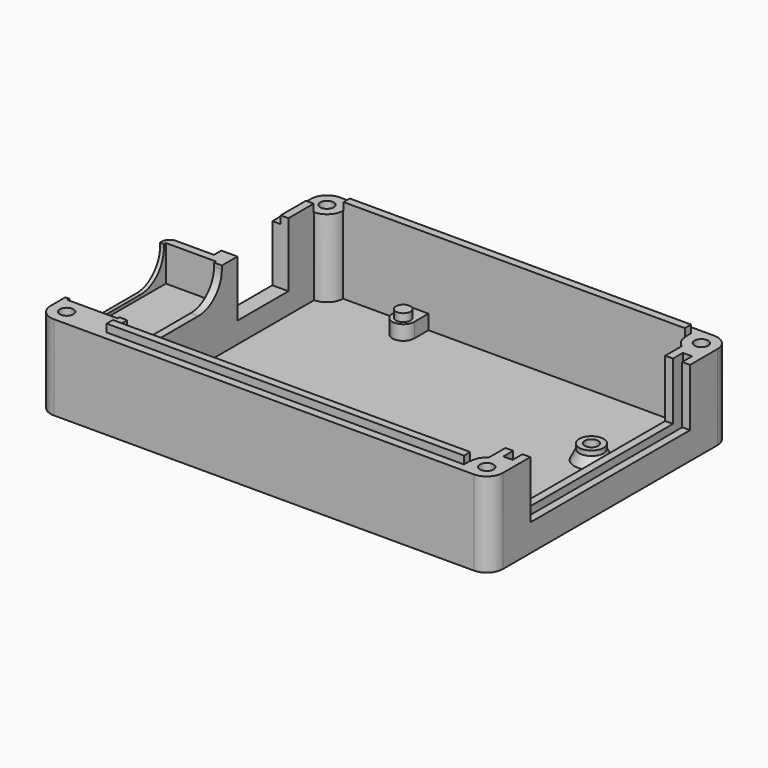
from build123d import *

# Parameters (mm, degrees)
PAD_DEPTH       = 1.5
PAD001_DEPTH    = 15.9
SKETCH003_R     = 2.5
PAD002_DEPTH    = 3
SKETCH004_R     = 1.5
PAD003_DEPTH    = 1.6
SKETCH005_W     = 70.1
SKETCH005_H     = 1.6
SKETCH005_W_2   = 1.6
SKETCH005_H_2   = 11.9
SKETCH005_W_3   = 73.4
PAD004_DEPTH    = 1.6
SKETCH007_W     = 1.9
SKETCH007_H     = 46.1
POCKET001_DEPTH = 14.35
SKETCH008_W     = 5.6
SKETCH008_H     = 41.02
POCKET002_DEPTH = 11.81
SKETCH009_W     = 4.8
SKETCH009_H     = 13.1
POCKET003_DEPTH = 13.2
SKETCH010_R     = 1.4
POCKET004_DEPTH = 15.9
POCKET_DEPTH    = 6.7
SKETCH014_W     = 10.3
SKETCH014_H     = 25.3
POCKET006_DEPTH = 0.65
SKETCH023_R     = 1.4
POCKET014_DEPTH = 4
CHAMFER_SIZE2   = 2
CHAMFER_SIZE    = 1
FILLET_R        = 3.3
FILLET001_R     = 1.6
FILLET002_R     = 6


with BuildPart() as part:
    # Sketch → Pad (new body)
    with BuildSketch(Plane.XY):
        Polygon((13.3, 49.3), (13.3, 77.5), (96.8, 77.5), (96.8, 15.8), (3.9, 15.8), (3.9, 49.3), align=None)
    extrude(amount=PAD_DEPTH)

    # Sketch001 (on Face8 of Pad) → Pad001 (join)
    with BuildSketch(Plane.XY.offset(1.5)):
        Polygon((96.8, 77.5), (13.3, 77.5), (13.3, 49.3), (3.9, 49.3), (3.9, 15.8), (96.8, 15.8), align=None)
        with BuildLine():
            Line((16.6, 70.9), (16.6, 19.1))
            Line((16.6, 19.1), (90.2, 19.1))
            ThreePointArc((91.7, 21.865863), (90.599138, 20.673213), (90.2, 19.1))
            Line((91.7, 21.865863), (91.7, 71.434137))
            ThreePointArc((90.2, 74.2), (90.599138, 72.626787), (91.7, 71.434137))
            Line((90.2, 74.2), (19.9, 74.2))
            ThreePointArc((16.6, 70.9), (18.933452, 71.866548), (19.9, 74.2))
        make_face(mode=Mode.SUBTRACT)
    extrude(amount=PAD001_DEPTH)

    # Sketch003 (on Face9 of Pad001) → Pad002 (join)
    with BuildSketch(Plane.XY.offset(1.5)):
        with Locations((86, 55.35)):
            Circle(SKETCH003_R)
        with Locations((86, 27.45)):
            Circle(SKETCH003_R)
        with BuildLine():
            ThreePointArc((36.4, 22.35), (33.9, 24.85), (31.4, 22.35))
            Line((31.4, 22.35), (31.4, 18))
            Line((36.4, 18), (31.4, 18))
            Line((36.4, 22.35), (36.4, 18))
        make_face()
        with BuildLine():
            ThreePointArc((32.95, 70.55), (35.2, 68.3), (37.45, 70.55))
            Line((37.45, 70.55), (37.45, 75.55))
            Line((32.95, 75.55), (37.45, 75.55))
            Line((32.95, 70.55), (32.95, 75.55))
        make_face()
    extrude(amount=PAD002_DEPTH)

    # Sketch004 (on Face28 of Pad002) → Pad003 (join)
    with BuildSketch(Plane.XY.offset(4.5)):
        with Locations((35.2, 70.55)):
            Circle(SKETCH004_R)
        with Locations((86, 27.45)):
            Circle(SKETCH004_R)
    extrude(amount=PAD003_DEPTH)

    # Sketch005 (on Face1 of Pad003) → Pad004 (join)
    with BuildSketch(Plane.XY.offset(17.4)):
        with Locations((55.05, 75)):
            Rectangle(SKETCH005_W, SKETCH005_H)
        with Locations((15.8, 64.85)):
            Rectangle(SKETCH005_W_2, SKETCH005_H_2)
        with Locations((53.4, 18.3)):
            Rectangle(SKETCH005_W_3, SKETCH005_H)
    extrude(amount=PAD004_DEPTH)

    # Sketch007 (on Face1 of Pad004) → Pocket001 (cut)
    with BuildSketch(Plane.XY.offset(17.4)):
        with Locations((94.25, 46.65)):
            Rectangle(SKETCH007_W, SKETCH007_H)
    extrude(amount=-POCKET001_DEPTH, mode=Mode.SUBTRACT)

    # Sketch008 (on Face1 of Pocket001) → Pocket002 (cut)
    with BuildSketch(Plane.XY.offset(17.4)):
        with Locations((94.25, 46.65)):
            Rectangle(SKETCH008_W, SKETCH008_H)
    extrude(amount=-POCKET002_DEPTH, mode=Mode.SUBTRACT)

    # Sketch009 (on Face41 of Pocket002) → Pocket003 (cut)
    with BuildSketch(Plane.XY.offset(19)):
        with Locations((14.6, 57.75)):
            Rectangle(SKETCH009_W, SKETCH009_H)
    extrude(amount=-POCKET003_DEPTH, mode=Mode.SUBTRACT)

    # Sketch010 (on Face1 of Pocket003) → Pocket004 (cut)
    with BuildSketch(Plane.XY.offset(17.4)):
        with Locations((16.6, 74.2)):
            Circle(SKETCH010_R)
        with Locations((93.5, 74.2)):
            Circle(SKETCH010_R)
        with Locations((93.5, 19.1)):
            Circle(SKETCH010_R)
        with Locations((7.2, 19.1)):
            Circle(SKETCH010_R)
    extrude(amount=-POCKET004_DEPTH, mode=Mode.SUBTRACT)

    # Sketch002 (on Face1 of Pad001) → Pocket (cut)
    with BuildSketch(Plane.XY.offset(17.4)):
        Polygon((4.7, 22.4), (15, 22.4), (15, 22.9), (18.2, 22.9), (18.2, 47.2), (15, 47.2), (15, 47.7), (4.7, 47.7), (4.7, 47.2), (1.5, 47.2), (1.5, 22.9), (4.7, 22.9), align=None)
    extrude(amount=-POCKET_DEPTH, mode=Mode.SUBTRACT)

    # Sketch014 (on Face41 of Pocket) → Pocket006 (cut)
    with BuildSketch(Plane.XY.offset(10.7)):
        with Locations((9.85, 35.05)):
            Rectangle(SKETCH014_W, SKETCH014_H)
    extrude(amount=-POCKET006_DEPTH, mode=Mode.SUBTRACT)

    # Sketch023 (on Face70 of Pocket006) → Pocket014 (cut)
    with BuildSketch(Plane.XY.offset(4.5)):
        with Locations((33.9, 22.35)):
            Circle(SKETCH023_R)
        with Locations((86, 55.35)):
            Circle(SKETCH023_R)
    extrude(amount=-POCKET014_DEPTH, mode=Mode.SUBTRACT)

    # Chamfer
    chamfer_edges = [part.edges().sort_by_distance(p)[0] for p in [
        (83.5, 55.35, 1.5),
        (83.5, 27.45, 1.5),
    ]]
    chamfer_side = part.faces().sort_by_distance((54.108445, 46.65668, 1.5))[0]
    chamfer(chamfer_edges, length=CHAMFER_SIZE, length2=CHAMFER_SIZE2, reference=chamfer_side)

    # Fillet
    fillet_edges = [part.edges().sort_by_distance(p)[0] for p in [
        (13.3, 77.5, 8.7),
        (3.9, 15.8, 8.7),
        (96.8, 77.5, 8.7),
        (96.8, 15.8, 8.7),
    ]]
    fillet(fillet_edges, radius=FILLET_R)

    # Fillet001
    fillet001_edges = [part.edges().sort_by_distance(p)[0] for p in [
        (3.9, 49.3, 8.7),
    ]]
    fillet(fillet001_edges, radius=FILLET001_R)

    # Fillet002
    fillet002_edges = [part.edges().sort_by_distance(p)[0] for p in [
        (15.8, 22.9, 10.7),
        (15.8, 47.2, 10.7),
        (4.3, 47.2, 10.7),
        (4.3, 22.9, 10.7),
    ]]
    fillet(fillet002_edges, radius=FILLET002_R)


solid = part.part
